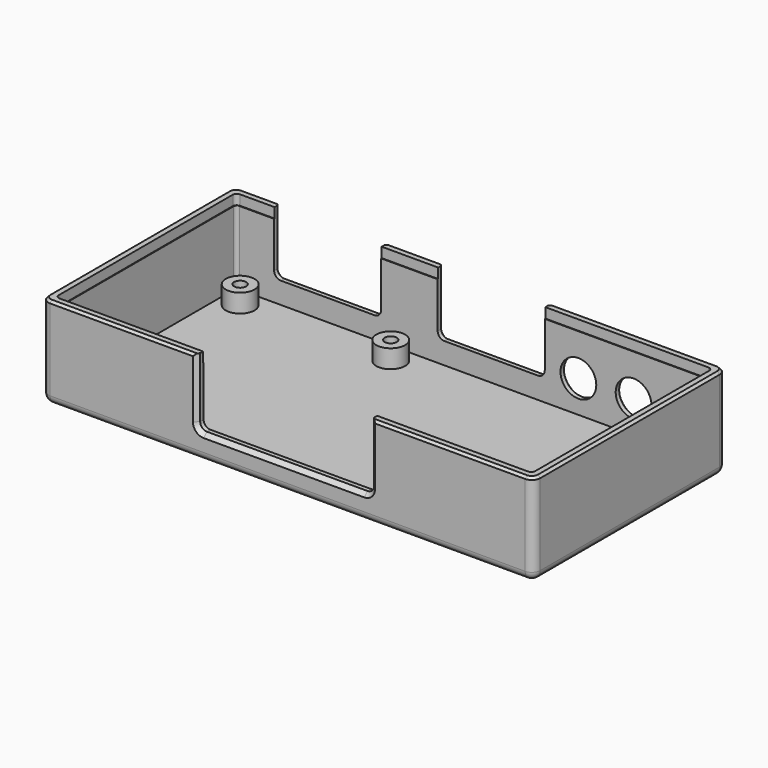
from build123d import *

# Parameters (mm, degrees)
SKETCH_W        = 142
SKETCH_H        = 67
PAD_DEPTH       = 25
THICKNESS_T     = 2.5
SKETCH001_R     = 4.3
SKETCH001_R_2   = 1.8
PAD001_DEPTH    = 5.5
FILLET_R        = 1
SKETCH002_W     = 32
SKETCH002_H     = 18.6
POCKET_DEPTH    = 5
SKETCH003_W     = 52
SKETCH003_H     = 20
POCKET001_DEPTH = 2.5
SKETCH006_R     = 1.8
POCKET002_DEPTH = 27.501
PAD005_DEPTH    = 2.5
FILLET001_R     = 2
CHAMFER001_SIZE = 1.2
FILLET002_R     = 2
CHAMFER002_SIZE = 1.2
POCKET003_DEPTH = 3
CHAMFER003_SIZE = 0.7


with BuildPart() as part:
    # Sketch → Pad (new body)
    with BuildSketch(Plane.XY):
        Rectangle(SKETCH_W, SKETCH_H)
    extrude(amount=PAD_DEPTH)

    # Thickness
    thickness_openings = [part.faces().sort_by_distance(p)[0] for p in [
        (0, 0, 25),
    ]]
    offset(amount=THICKNESS_T, openings=thickness_openings)

    # Sketch001 (on Face5 of Thickness) → Pad001 (join)
    with BuildSketch(Plane.XY):
        with Locations((-65, -27.5)):
            Circle(SKETCH001_R)
        with Locations((-65, -27.5)):
            Circle(SKETCH001_R_2, mode=Mode.SUBTRACT)
        with Locations((-65, 27.5)):
            Circle(SKETCH001_R)
        with Locations((-65, 27.5)):
            Circle(SKETCH001_R_2, mode=Mode.SUBTRACT)
        with Locations((-20, 27.5)):
            Circle(SKETCH001_R)
        with Locations((-20, 27.5)):
            Circle(SKETCH001_R_2, mode=Mode.SUBTRACT)
        with Locations((65, 27.5)):
            Circle(SKETCH001_R)
        with Locations((65, 27.5)):
            Circle(SKETCH001_R_2, mode=Mode.SUBTRACT)
        with Locations((65, -27.5)):
            Circle(SKETCH001_R)
        with Locations((65, -27.5)):
            Circle(SKETCH001_R_2, mode=Mode.SUBTRACT)
    extrude(amount=PAD001_DEPTH)

    # Fillet
    fillet_edges = [part.edges().sort_by_distance(p)[0] for p in [
        (-71, 33.5, 12.5),
        (71, 33.5, 12.5),
        (-71, -33.5, 12.5),
        (71, -33.5, 12.5),
    ]]
    fillet(fillet_edges, radius=FILLET_R)

    # Sketch002 (on Face19 of Fillet) → Pocket (cut)
    with BuildSketch(Plane(origin=(0, 36, 0), x_dir=(-1, 0, 0), z_dir=(0, 1, 0))):
        with Locations((-5.2475, 15.7)):
            Rectangle(SKETCH002_W, SKETCH002_H)
        with Locations((43.65, 15.7)):
            Rectangle(SKETCH002_W, SKETCH002_H)
        with BuildLine():
            ThreePointArc((-42.45, 25), (-47.8, 30.35), (-53.15, 25))
            Line((-53.15, 25), (-53.15, 9.6))
            ThreePointArc((-53.15, 9.6), (-47.8, 4.25), (-42.45, 9.6))
            Line((-42.45, 25), (-42.45, 9.6))
        make_face()
        with BuildLine():
            ThreePointArc((-25.95, 25), (-31.3, 30.35), (-36.65, 25))
            Line((-36.65, 25), (-36.65, 9.6))
            ThreePointArc((-36.65, 9.6), (-31.3, 4.25), (-25.95, 9.6))
            Line((-25.95, 25), (-25.95, 9.6))
        make_face()
    extrude(amount=-POCKET_DEPTH, mode=Mode.SUBTRACT)

    # Sketch003 (on Face35 of Pocket) → Pocket001 (cut)
    with BuildSketch(Plane.XZ.offset(36)):
        with Locations((-1.1, 15)):
            Rectangle(SKETCH003_W, SKETCH003_H)
    extrude(amount=-POCKET001_DEPTH, mode=Mode.SUBTRACT)

    # Sketch006 (on Face61 of Pocket001) → Pocket002 (cut, through all)
    with BuildSketch(Plane(origin=(0, 0, -2.5), x_dir=(1, 0, 0), z_dir=(0, 0, -1))):
        with Locations((-65, 27.5)):
            Circle(SKETCH006_R)
        with Locations((65, 27.5)):
            Circle(SKETCH006_R)
        with Locations((65, -27.5)):
            Circle(SKETCH006_R)
        with Locations((-20, -27.5)):
            Circle(SKETCH006_R)
        with Locations((-65, -27.5)):
            Circle(SKETCH006_R)
    extrude(amount=-POCKET002_DEPTH, mode=Mode.SUBTRACT)

    # Sketch008 (on Face32 of Pocket002) → Pad005 (join)
    with BuildSketch(Plane(origin=(0, 36, 0), x_dir=(-1, 0, 0), z_dir=(0, 1, 0))):
        with BuildLine():
            ThreePointArc((-42.45, 9.6), (-47.8, 14.95), (-53.15, 9.6))
            Line((-53.15, 9.6), (-53.15, 25))
            Line((-53.15, 25), (-42.45, 25))
            Line((-42.45, 25), (-42.45, 9.6))
        make_face()
        with BuildLine():
            ThreePointArc((-25.95, 9.6), (-31.3, 14.95), (-36.65, 9.6))
            Line((-36.65, 9.6), (-36.65, 25))
            Line((-36.65, 25), (-25.95, 25))
            Line((-25.95, 25), (-25.95, 9.6))
        make_face()
    extrude(amount=-PAD005_DEPTH)

    # Fillet001
    fillet001_edges = [part.edges().sort_by_distance(p)[0] for p in [
        (21.2475, 34.75, 6.4),
        (-10.7525, 34.75, 6.4),
        (-27.65, 34.75, 6.4),
        (-59.65, 34.75, 6.4),
    ]]
    fillet(fillet001_edges, radius=FILLET001_R)

    # Chamfer001
    chamfer001_edges = [part.edges().sort_by_distance(p)[0] for p in [
        (31.3, 36, 4.25),
        (47.8, 36, 4.25),
        (5.2475, 36, 6.4),
        (-43.65, 36, 6.4),
    ]]
    chamfer(chamfer001_edges, length=CHAMFER001_SIZE)

    # Fillet002
    fillet002_edges = [part.edges().sort_by_distance(p)[0] for p in [
        (24.9, -34.75, 5),
        (-27.1, -34.75, 5),
    ]]
    fillet(fillet002_edges, radius=FILLET002_R)

    # Chamfer002
    chamfer002_edges = [part.edges().sort_by_distance(p)[0] for p in [
        (-1.1, -36, 5),
    ]]
    chamfer(chamfer002_edges, length=CHAMFER002_SIZE)

    # Sketch010 (on Face14 of Chamfer002) → Pocket003 (cut)
    with BuildSketch(Plane.XY.offset(25)):
        with BuildLine():
            Line((-70, 33.7), (70, 33.7))
            ThreePointArc((71.2, 32.5), (70.848528, 33.348528), (70, 33.7))
            Line((71.2, 32.5), (71.2, -32.5))
            ThreePointArc((70, -33.7), (70.848528, -33.348528), (71.2, -32.5))
            Line((70, -33.7), (-70, -33.7))
            ThreePointArc((-71.2, -32.5), (-70.848528, -33.348528), (-70, -33.7))
            Line((-71.2, -32.5), (-71.2, 32.5))
            ThreePointArc((-70, 33.7), (-70.848528, 33.348528), (-71.2, 32.5))
        make_face()
    extrude(amount=-POCKET003_DEPTH, mode=Mode.SUBTRACT)

    # Chamfer003
    chamfer003_edges = [part.edges().sort_by_distance(p)[0] for p in [
        (-65.925, 36, 25),
        (-19.20125, 36, 25),
        (31.3, 36, 25),
    ]]
    chamfer(chamfer003_edges, length=CHAMFER003_SIZE)


solid = part.part
